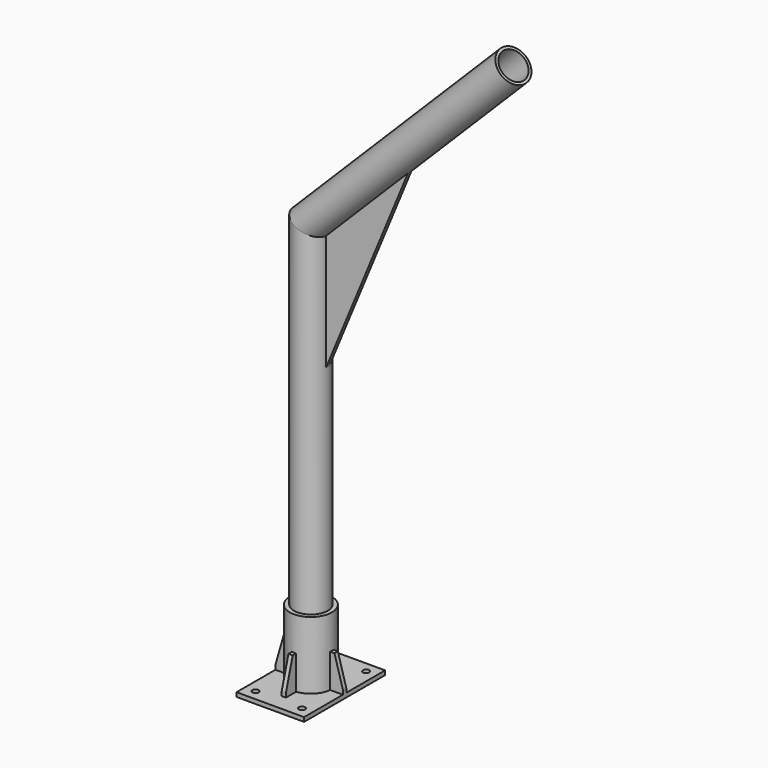
from build123d import *

# Parameters (mm, degrees)
F0_W      = 203.2
F0_H      = 304.8
F0_R      = 9.525
F1_DEPTH  = 12.7
F2_R      = 63.5
F2_R_2    = 50.8
F3_DEPTH  = 203.2
F5_R      = 50.8
F5_R_2    = 42.7228
F8_DEPTH  = 6.35
F10_DEPTH = 6.35
F11_COUNT = 4


with BuildPart() as f1:
    # F0 (on Top) → F1 (new body)
    with BuildSketch(Plane.XY):
        Rectangle(F0_W, F0_H)
        with Locations((-69.85, -120.65)):
            Circle(F0_R, mode=Mode.SUBTRACT)
        with Locations((69.85, -120.65)):
            Circle(F0_R, mode=Mode.SUBTRACT)
        with Locations((-69.85, 120.65)):
            Circle(F0_R, mode=Mode.SUBTRACT)
        with Locations((69.85, 120.65)):
            Circle(F0_R, mode=Mode.SUBTRACT)
    extrude(amount=F1_DEPTH)

    # F2 (on face) → F3 (join)
    with BuildSketch(Plane.XY.offset(12.7)):
        Circle(F2_R)
        Circle(F2_R_2, mode=Mode.SUBTRACT)
    extrude(amount=F3_DEPTH)



with BuildPart() as f6:
    # F6: sweep along a path in F4
    with BuildLine(Plane.XZ) as f6_path:
        Line((0, 12.7), (0, 1231.9))
        Line((0, 1231.9), (609.6, 1841.5))
    # F5 (on face) → F6 (sweep)
    with BuildSketch(Plane.XY.offset(12.7)):
        Circle(F5_R)
        Circle(F5_R_2, mode=Mode.SUBTRACT)
    sweep(path=f6_path.line, transition=Transition.RIGHT)

    # F7 (on Front) → F8 (join, symmetric)
    with BuildSketch(Plane.XZ):
        Polygon((299.7071713899, 1463.3572248698), (48.26, 1211.9100534799), (48.26, 856.3100534799), align=None)
    extrude(amount=F8_DEPTH, both=True)


with BuildPart() as f10:
    # F9 (on Front) → F10 (new body, symmetric)
    with BuildSketch(Plane.XZ):
        Polygon((76.2, 114.3), (63.5, 114.3), (60.96, 114.3), (60.96, 12.7), (63.5, 12.7), (101.6, 12.7), (101.6, 25.4), align=None)
    extrude(amount=F10_DEPTH, both=True)


with BuildPart() as f1_1:
    add(f1.part)

    add(f10.part)  # F11 merges F10
    # F11: F10 ×4 about axis
    f11_axis = Axis((0, 0, 12.7), (0, 0, -1))
    for i in range(1, F11_COUNT):
        add(f10.part.rotate(f11_axis, i * 360 / F11_COUNT))


solid = Compound([f6.part, f1_1.part])
